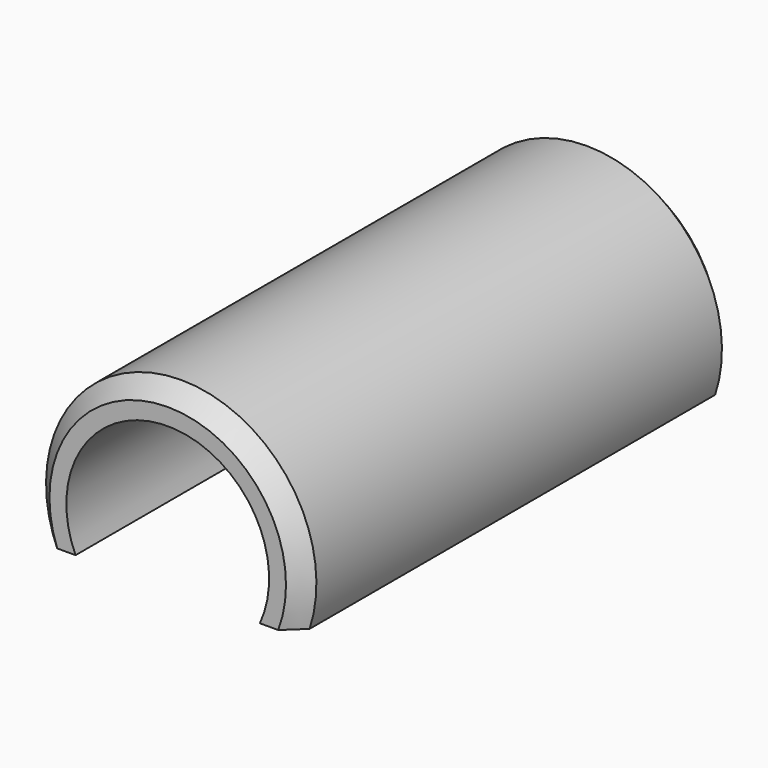
from build123d import *

# Parameters (mm, degrees)
BOX_W           = 100
BOX_H           = 100
BOX_DEPTH       = 100
TUBE001_R       = 16
TUBE001_R_2     = 12
TUBE001_DEPTH   = 64
CHAMFER003_SIZE = 2


with BuildPart() as krychle:
    # Box → Box (new body)
    with BuildSketch(Plane(origin=(32, -54, -63), x_dir=(1, 0, 0), z_dir=(0, 0, 1))):
        with Locations((50, 50)):
            Rectangle(BOX_W, BOX_H)
    extrude(amount=BOX_DEPTH)


with BuildPart() as cut381:
    # Tube001 → Tube001 (new body)
    with BuildSketch(Plane(origin=(75, 16, 42), x_dir=(1, 0, 0), z_dir=(0, -1, 0))):
        Circle(TUBE001_R)
        Circle(TUBE001_R_2, mode=Mode.SUBTRACT)
    extrude(amount=TUBE001_DEPTH)

    # Chamfer003
    chamfer003_edges = [cut381.edges().sort_by_distance(p)[0] for p in [
        (59, -48, 42),
        (59, 16, 42),
    ]]
    chamfer(chamfer003_edges, length=CHAMFER003_SIZE)

    # Cut381: cut Krychle
    add(krychle.part, mode=Mode.SUBTRACT)


solid = cut381.part
